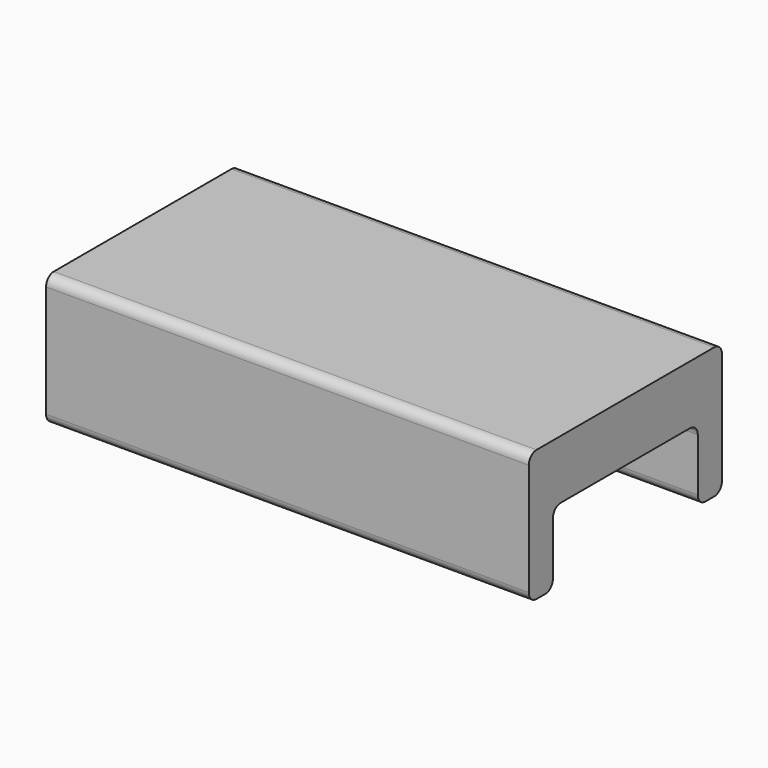
from build123d import *

# Parameters (mm, degrees)
F1_DEPTH = 100


with BuildPart() as f1:
    # F0 (on Right) → F1 (new body)
    with BuildSketch(Plane.YZ):
        with BuildLine():
            Line((22.086483, 27.22996), (-23.913517, 27.22996))
            ThreePointArc((-23.913517, 27.22996), (-25.32773, 26.644174), (-25.913517, 25.22996))
            Line((-25.913517, 25.22996), (-25.913517, 2.02996))
            ThreePointArc((-25.913517, 2.02996), (-25.32773, 0.615747), (-23.913517, 0.02996))
            Line((-23.913517, 0.02996), (-21.663517, 0.02996))
            ThreePointArc((-21.663517, 0.02996), (-20.249303, 0.615747), (-19.663517, 2.02996))
            Line((-19.663517, 2.02996), (-19.663517, 13.02996))
            ThreePointArc((-19.663517, 13.02996), (-19.07773, 14.444174), (-17.663517, 15.02996))
            Line((-17.663517, 15.02996), (15.836483, 15.02996))
            ThreePointArc((15.836483, 15.02996), (17.250697, 14.444174), (17.836483, 13.02996))
            Line((17.836483, 13.02996), (17.836483, 2.02996))
            ThreePointArc((17.836483, 2.02996), (18.42227, 0.615747), (19.836483, 0.02996))
            Line((19.836483, 0.02996), (22.086483, 0.02996))
            ThreePointArc((22.086483, 0.02996), (23.500697, 0.615747), (24.086483, 2.02996))
            Line((24.086483, 2.02996), (24.086483, 25.22996))
            ThreePointArc((24.086483, 25.22996), (23.500697, 26.644174), (22.086483, 27.22996))
        make_face()
    extrude(amount=F1_DEPTH)


solid = f1.part
